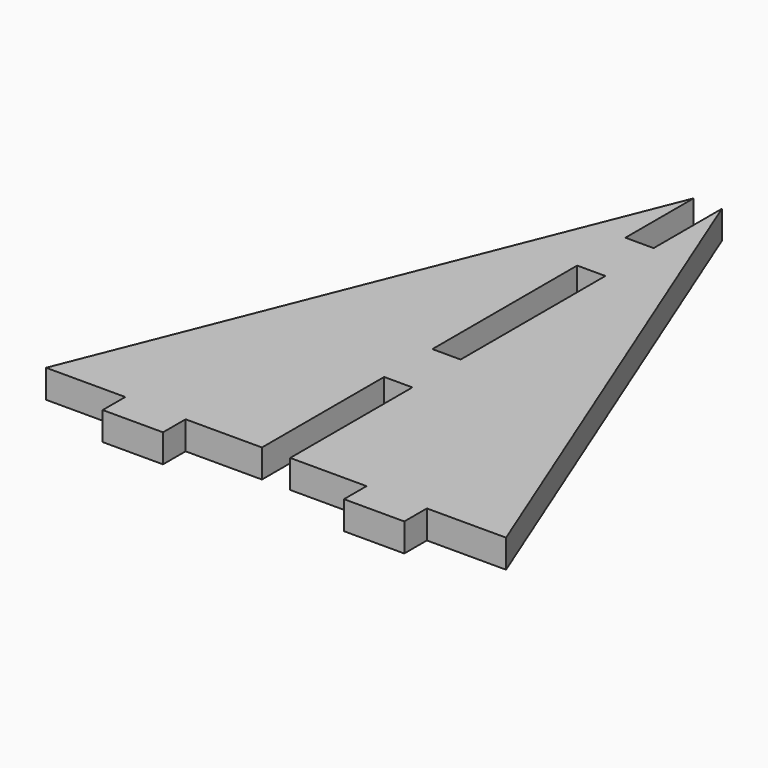
from build123d import *

# Parameters (mm, degrees)
F1_DEPTH = 2.9718
F2_W     = 2.9718
F2_H     = 19.05
F2_H_2   = 25.4
F3_DEPTH = 25.4
F4_W     = 8.0391
F4_H     = 2.9718
F4_W_2   = 12.7
F5_DEPTH = 25.4


with BuildPart() as f1:
    # F0 (on Top) → F1 (new body)
    with BuildSketch(Plane.XY):
        Polygon((25.4, 0), (0, 63.5), (-25.4, 0), align=None)
    extrude(amount=F1_DEPTH)

    # F2 (on face) → F3 (cut)
    with BuildSketch(Plane.XY.offset(2.9718)):
        with Locations((0, 9.525)):
            Rectangle(F2_W, F2_H)
        with Locations((0, 34.925)):
            Rectangle(F2_W, F2_H)
        with Locations((0, 63.5)):
            Rectangle(F2_W, F2_H_2)
    extrude(amount=-F3_DEPTH, mode=Mode.SUBTRACT)

    # F4 (on face) → F5 (cut)
    with BuildSketch(Plane.XY.offset(2.9718)):
        with Locations((-5.50545, 1.4859)):
            Rectangle(F4_W, F4_H)
        with Locations((-22.225, 1.4859)):
            Rectangle(F4_W_2, F4_H)
        with Locations((5.50545, 1.4859)):
            Rectangle(F4_W, F4_H)
        with Locations((22.225, 1.4859)):
            Rectangle(F4_W_2, F4_H)
    extrude(amount=-F5_DEPTH, mode=Mode.SUBTRACT)


solid = f1.part
